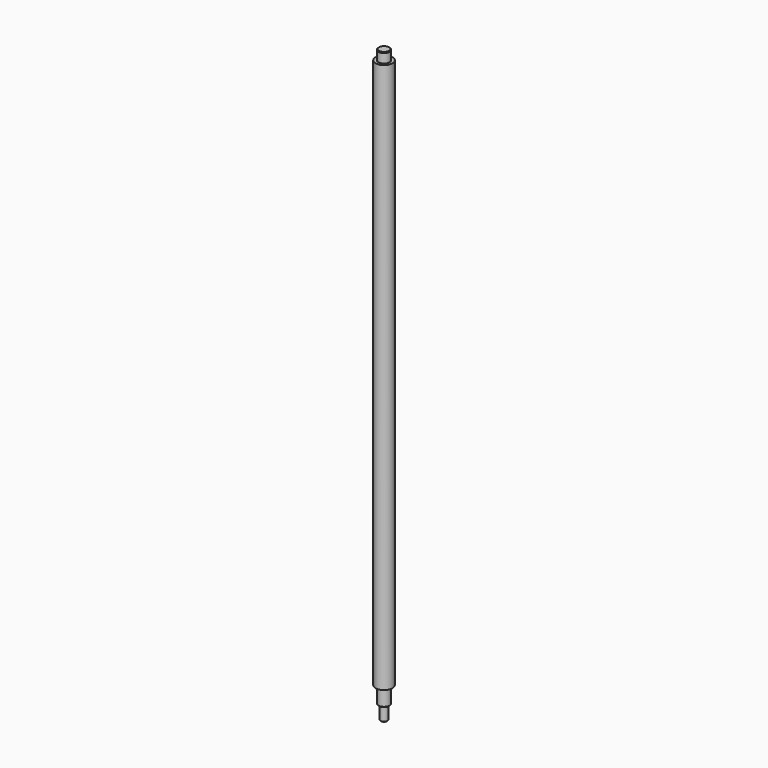
from build123d import *

# Parameters (mm, degrees)
F0_R      = 4
F1_DEPTH  = 7
F2_SIZE   = 0.5
F3_R      = 6
F4_DEPTH  = 391
F5_R      = 4
F6_DEPTH  = 12
F7_SIZE   = 0.5
F8_R      = 2.5
F9_DEPTH  = 10
F10_SIZE  = 0.5
F12_DEPTH = 7


with BuildPart() as f1:
    # F0 (on Top) → F1 (new body)
    with BuildSketch(Plane.XY):
        Circle(F0_R)
    extrude(amount=-F1_DEPTH)

    # F2
    f2_edges = [f1.edges().sort_by_distance(p)[0] for p in [
        (-4, 0, 0),
    ]]
    chamfer(f2_edges, length=F2_SIZE)

    # F3 (on face) → F4 (join)
    with BuildSketch(Plane(origin=(0, 0, -7), x_dir=(1, 0, 0), z_dir=(0, 0, -1))):
        Circle(F3_R)
    extrude(amount=F4_DEPTH)

    # F5 (on face) → F6 (join)
    with BuildSketch(Plane(origin=(0, 0, -398), x_dir=(1, 0, 0), z_dir=(0, 0, -1))):
        Circle(F5_R)
    extrude(amount=F6_DEPTH)

    # F7
    f7_edges = [f1.edges().sort_by_distance(p)[0] for p in [
        (-4, 0, -410),
    ]]
    chamfer(f7_edges, length=F7_SIZE)

    # F8 (on face) → F9 (join)
    with BuildSketch(Plane(origin=(0, 0, -410), x_dir=(1, 0, 0), z_dir=(0, 0, -1))):
        Circle(F8_R)
    extrude(amount=F9_DEPTH)

    # F10
    f10_edges = [f1.edges().sort_by_distance(p)[0] for p in [
        (-2.5, 0, -420),
    ]]
    chamfer(f10_edges, length=F10_SIZE)

    # F11 (on face) → F12 (cut)
    with BuildSketch(Plane(origin=(0, 0, -420), x_dir=(1, 0, 0), z_dir=(0, 0, -1))):
        with BuildLine():
            Line((1.3228756555, -1.5), (-1.3228756555, -1.5))
            ThreePointArc((-1.3228756555, -1.5), (0, -2), (1.3228756555, -1.5))
        make_face()
        with BuildLine():
            Line((-1.3228756555, -1.5), (-2, -1.5))
            ThreePointArc((-2, -1.5), (0, -2.5), (2, -1.5))
            Line((2, -1.5), (1.3228756555, -1.5))
            ThreePointArc((1.3228756555, -1.5), (0, -2), (-1.3228756555, -1.5))
        make_face()
    extrude(amount=-F12_DEPTH, mode=Mode.SUBTRACT)


solid = f1.part
